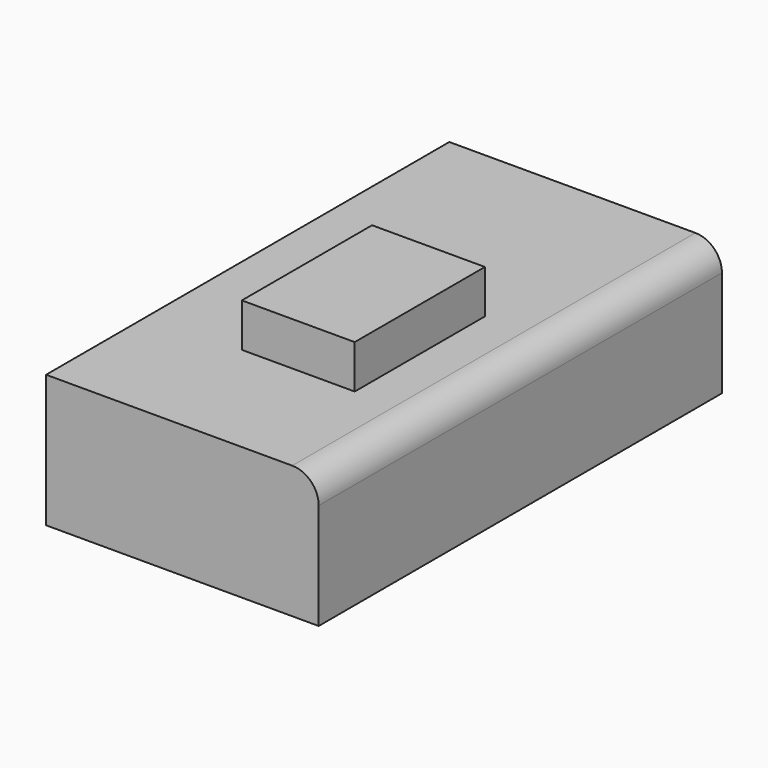
from build123d import *

# Parameters (mm, degrees)
F0_W     = 52.234799
F0_H     = 96.570488
F1_DEPTH = 25.4
F2_R     = 5.08
F3_W     = 21.627817
F3_H     = 31.183585
F4_DEPTH = 8.342061


with BuildPart() as f1:
    # F0 (on Top) → F1 (new body)
    with BuildSketch(Plane.XY):
        with Locations((26.117399, -1.483681)):
            Rectangle(F0_W, F0_H)
    extrude(amount=F1_DEPTH)

    # F2
    f2_edges = [f1.edges().sort_by_distance(p)[0] for p in [
        (52.234799, -1.483681, 25.4),
    ]]
    fillet(f2_edges, radius=F2_R)

    # F3 (on face) → F4 (join)
    with BuildSketch(Plane.XY.offset(25.4)):
        with Locations((28.650353, -9.590007)):
            Rectangle(F3_W, F3_H)
    extrude(amount=F4_DEPTH)


solid = f1.part
